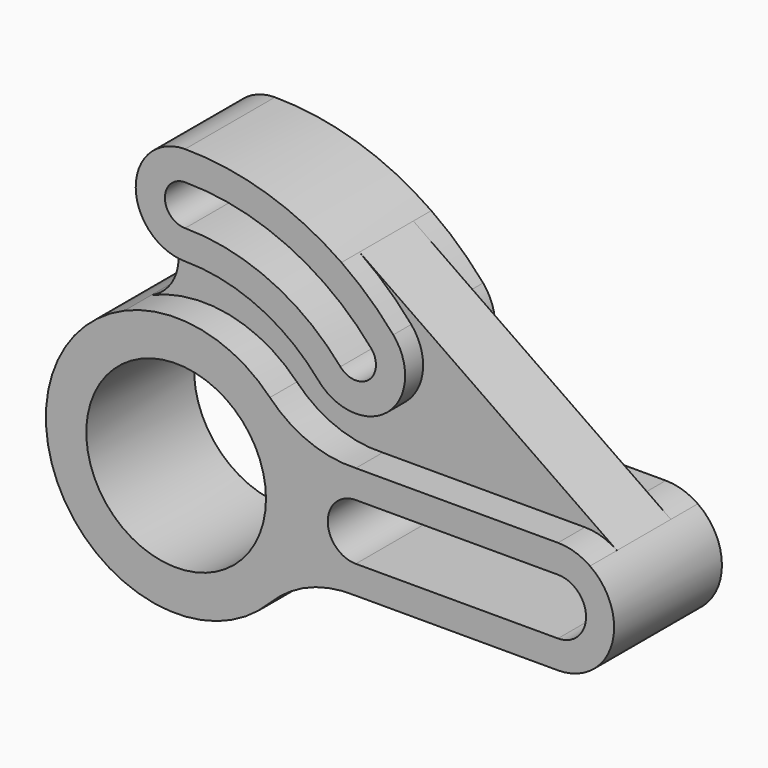
from build123d import *

# Parameters (mm, degrees)
F0_R     = 40
F1_DEPTH = 30
F2_DEPTH = 25
F3_DEPTH = 15


with BuildPart() as f1:
    # F0 (on Front) → F1 (new body, symmetric)
    with BuildSketch(Plane.XZ):
        with BuildLine():
            ThreePointArc((184.264706, 20.530908), (177.474199, 23.856579), (170, 25))
            Line((170, 25), (80, 25))
            ThreePointArc((80, 25), (59.237365, 28.506986), (41.759702, 40.250805))
            ThreePointArc((41.759702, 40.250805), (11.405609, 56.867496), (-23.008546, 53.241026))
            ThreePointArc((-23.008546, 53.241026), (-47.67685, -33.029047), (41.759702, -40.250805))
            ThreePointArc((41.759702, -40.250805), (59.237365, -28.506986), (80, -25))
            Line((80, -25), (170, -25))
            ThreePointArc((170, -25), (193.856579, -7.474199), (184.264706, 20.530908))
        make_face()
        Circle(F0_R, mode=Mode.SUBTRACT)
        with BuildLine():
            Line((170, -12.5), (80, -12.5))
            ThreePointArc((80, -12.5), (67.5, 0), (80, 12.5))
            Line((80, 12.5), (170, 12.5))
            ThreePointArc((170, 12.5), (182.5, 0), (170, -12.5))
        make_face(mode=Mode.SUBTRACT)
    extrude(amount=F1_DEPTH, both=True)


with BuildPart() as f2:
    # F0 (on Front) → F2 (new body, symmetric)
    with BuildSketch(Plane.XZ):
        with BuildLine():
            ThreePointArc((92.675427, 79.342707), (81.810416, 90.504452), (69.611765, 100.190829))
            ThreePointArc((69.611765, 100.190829), (36.474093, 116.420104), (0, 122))
            ThreePointArc((0, 122), (-20.140459, 108.852226), (-16.207991, 85.12381))
            ThreePointArc((-16.207991, 85.12381), (-8.852226, 79.859541), (0, 78))
            ThreePointArc((0, 78), (32.613419, 70.854533), (59.251503, 50.727305))
            ThreePointArc((59.251503, 50.727305), (90.271166, 48.323044), (92.675427, 79.342707))
        make_face()
        with BuildLine():
            ThreePointArc((69.126753, 59.181855), (38.048989, 82.663622), (0, 91))
            ThreePointArc((0, 91), (-9, 100), (0, 109))
            ThreePointArc((0, 109), (45.575163, 99.014668), (82.800177, 70.888156))
            ThreePointArc((82.800177, 70.888156), (81.816616, 58.198294), (69.126753, 59.181855))
        make_face(mode=Mode.SUBTRACT)
    extrude(amount=F2_DEPTH, both=True)


with BuildPart() as f3:
    # F0 (on Front) → F3 (new body, symmetric)
    with BuildSketch(Plane.XZ):
        with BuildLine():
            Line((80, 25), (170, 25))
            ThreePointArc((170, 25), (177.474199, 23.856579), (184.264706, 20.530908))
            Line((184.264706, 20.530908), (69.611765, 100.190829))
            ThreePointArc((69.611765, 100.190829), (81.810416, 90.504452), (92.675427, 79.342707))
            ThreePointArc((92.675427, 79.342707), (90.271166, 48.323044), (59.251503, 50.727305))
            ThreePointArc((59.251503, 50.727305), (32.613419, 70.854533), (0, 78))
            ThreePointArc((0, 78), (-8.852226, 79.859541), (-16.207991, 85.12381))
            ThreePointArc((-16.207991, 85.12381), (-11.382532, 67.427879), (-23.008546, 53.241026))
            ThreePointArc((-23.008546, 53.241026), (11.405609, 56.867496), (41.759702, 40.250805))
            ThreePointArc((41.759702, 40.250805), (59.237365, 28.506986), (80, 25))
        make_face()
    extrude(amount=F3_DEPTH, both=True)


solid = Compound([f1.part, f2.part, f3.part])
